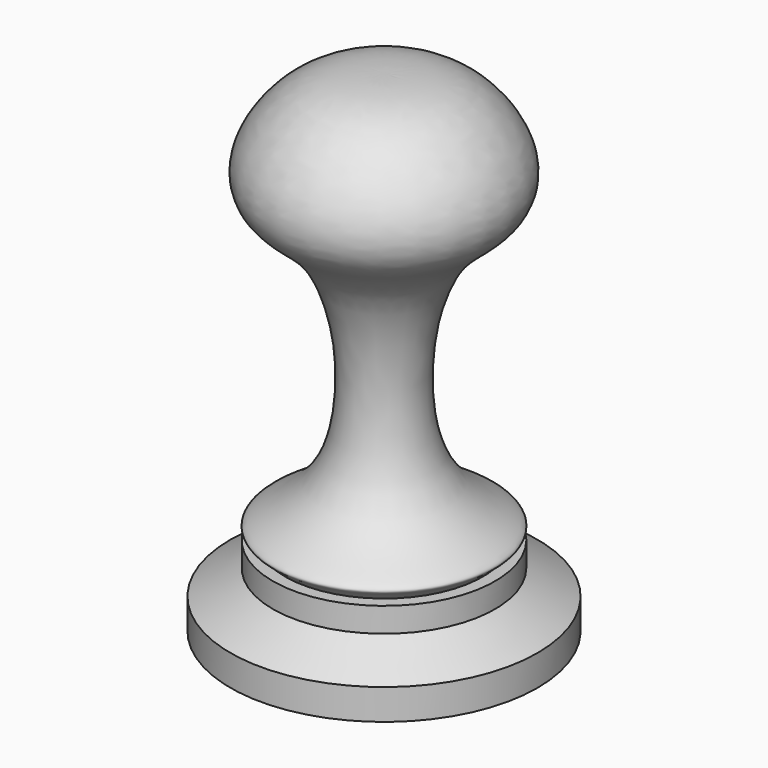
from build123d import *


with BuildPart() as f1:
    # F0 (on Front) → F1 (revolve)
    with BuildSketch(Plane.XZ):
        with BuildLine():
            Line((-56.4622417911, -45.2315431084), (-56.4622417911, -57.9315431084))
            Line((-56.4622417911, -57.9315431084), (7.0377582089, -57.9315431084))
            Line((7.0377582089, -57.9315431084), (7.0377582089, 145.2684568916))
            add(Edge.make_bspline(
                [(-33.8567267489, -24.7876371137), (-36.4313577641, -21.5874943809), (-45.0497467499, -19.0424849174), (-2.815395833, -4.2908627047), (-9.0648519219, 79.7346628049), (-41.374782246, 94.189081163), (-45.1085596994, 116.6022651769), (-26.4096882978, 141.6833526452), (-7.9156462699, 145.4893391722), (7.0377582089, 145.2684568916)],
                knots=[0, 0, 0, 0, 0.0722751404, 0.2160723133, 0.4447127052, 0.5936953188, 0.7071275754, 0.8454217378, 1, 1, 1, 1], degree=3))
            Line((-33.8567267489, -24.7876371137), (-38.9367267489, -24.7876371137))
            Line((-38.9367267489, -24.7876371137), (-38.9367267489, -34.9476371137))
            Line((-38.9367267489, -34.9476371137), (-56.4622417911, -45.2315431084))
        make_face()
    revolve(axis=Axis((7.0377582089, 0, 34.5441028476), (0, 0, -1)))


solid = f1.part
